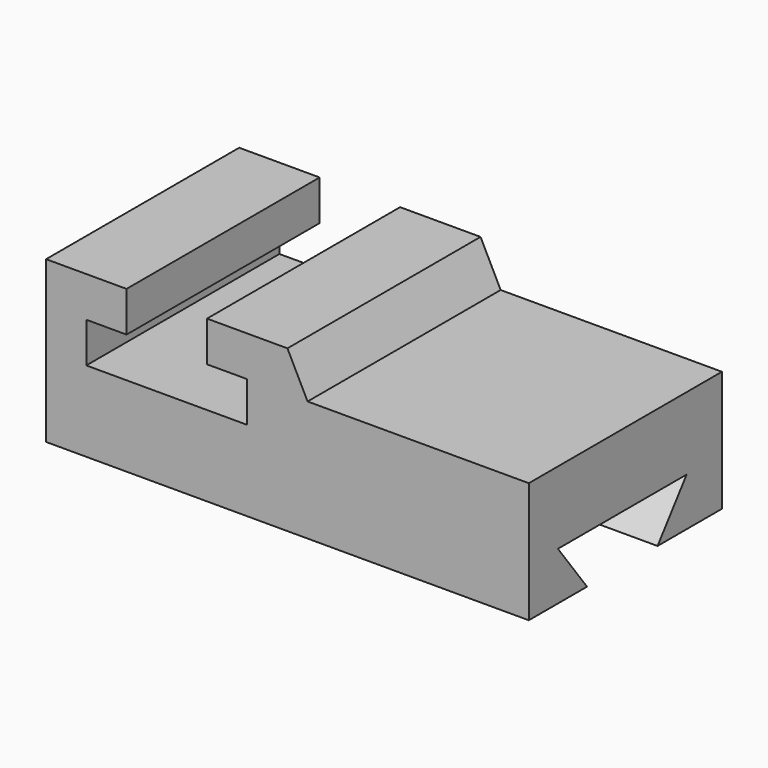
from build123d import *

# Parameters (mm, degrees)
F1_DEPTH = 76.2
F3_DEPTH = 25.4


with BuildPart() as f1:
    # F0 (on Front) → F1 (new body)
    with BuildSketch(Plane.XZ):
        Polygon((122.892595, 12.7), (135.592595, 12.7), (135.592595, 25.4), (110.192595, 25.4), (110.192595, -25.4), (262.592595, -25.4), (262.592595, 12.7), (192.742595, 12.7), (186.392595, 25.4), (160.992595, 25.4), (160.992595, 12.7), (173.692595, 12.7), (173.692595, 0), (122.892595, 0), align=None)
    extrude(amount=-F1_DEPTH)

    # F2 (on face) → F3 (cut)
    with BuildSketch(Plane.YZ.offset(262.592595)):
        Polygon((11.484614, -10.201114), (22.969229, -25.4), (50.8, -25.4), (62.284614, -10.201114), align=None)
    extrude(amount=-F3_DEPTH, mode=Mode.SUBTRACT)


solid = f1.part
